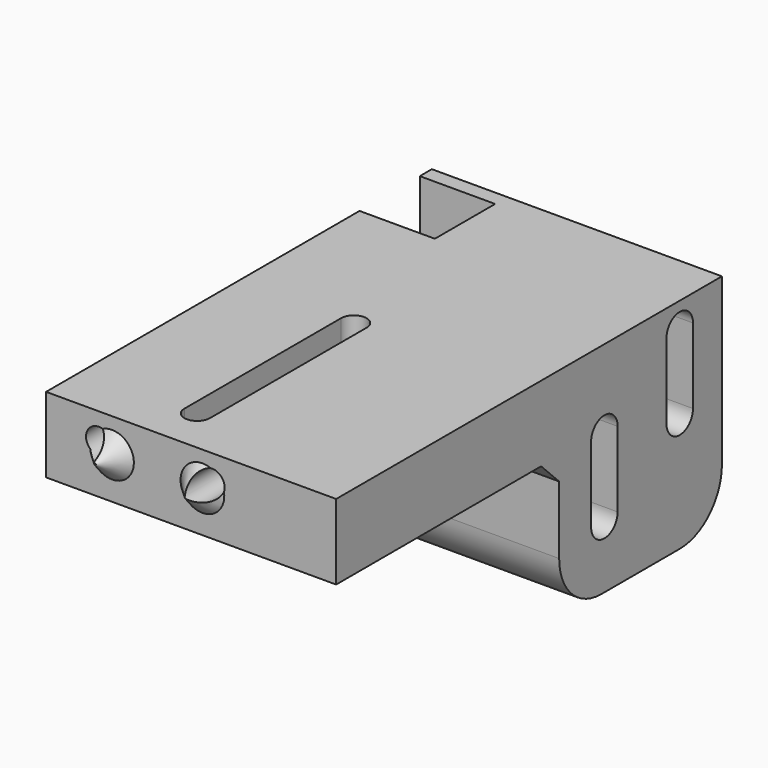
from build123d import *

# Parameters (mm, degrees)
BOX005009018_W            = 20
BOX005009018_H            = 10
BOX005009018_DEPTH        = 26
BOX005009017_W            = 20
BOX005009017_H            = 33
BOX005009017_DEPTH        = 26
CYLINDER027_R             = 3
CYLINDER027_DEPTH         = 4
BOX005009016_W            = 16
BOX005009016_H            = 5.6
BOX005009016_DEPTH        = 3
CYLINDER026_R             = 1.7
CYLINDER026_DEPTH         = 30
FUSION024_PITCH_ANGLE     = 90
FUSION024_PLACEMENT_ANGLE = 90
FUSION023_PITCH_ANGLE     = 90
FUSION023_PLACEMENT_ANGLE = 90
CYLINDER025_R             = 1.7
CYLINDER025_DEPTH         = 20
BOX005009015_W            = 3.4
BOX005009015_H            = 26
BOX005009015_DEPTH        = 20
CYLINDER024_R             = 1.7
CYLINDER024_DEPTH         = 20
BOX005009009_W            = 10
BOX005009009_H            = 4.4
BOX005009009_DEPTH        = 70
CYLINDER015_R             = 2.2
CYLINDER015_DEPTH         = 70
CYLINDER014_R             = 2.2
CYLINDER014_DEPTH         = 70
FUSION009_PITCH_ANGLE     = 90
FUSION011_PITCH_ANGLE     = 90
CYLINDER022_R             = 3
CYLINDER022_DEPTH         = 6
CYLINDER022_ROLL_ANGLE    = 90
CHAMFER014_SIZE           = 2.9
CHAMFER012_SIZE           = 2.9
CHAMFER010_SIZE           = 2.9
CHAMFER008_SIZE           = 2.9
BOX005009011_W            = 41
BOX005009011_H            = 60
BOX005009011_DEPTH        = 29
BOX005009010_W            = 38.5
BOX005009010_H            = 64
BOX005009010_DEPTH        = 29
CHAMFER026_SIZE           = 3
FILLET003_R               = 7
FILLET004_R               = 7


with BuildPart() as cube005:
    # Box005009018 → Box005009018 (new body)
    with BuildSketch(Plane(origin=(-17, 313, -27), x_dir=(1, 0, 0), z_dir=(0, 0, 1))):
        with Locations((10, 5)):
            Rectangle(BOX005009018_W, BOX005009018_H)
    extrude(amount=BOX005009018_DEPTH)


with BuildPart() as fusion027:
    # Box005009017 → Box005009017 (new body)
    with BuildSketch(Plane(origin=(-17, 294, -38), x_dir=(1, 0, 0), z_dir=(0, 0, 1))):
        with Locations((10, 16.5)):
            Rectangle(BOX005009017_W, BOX005009017_H)
    extrude(amount=BOX005009017_DEPTH)

    # Fusion027: union Cube005
    add(cube005.part)


with BuildPart() as cylinder018:
    # Cylinder027 → Cylinder027 (new body)
    with BuildSketch(Plane.XY):
        Circle(CYLINDER027_R)
    extrude(amount=CYLINDER027_DEPTH)


with BuildPart() as cube003:
    # Box005009016 → Box005009016 (new body)
    with BuildSketch(Plane(origin=(-3.2, -2.8, 18), x_dir=(1, 0, 0), z_dir=(0, 0, 1))):
        with Locations((8, 2.8)):
            Rectangle(BOX005009016_W, BOX005009016_H)
    extrude(amount=BOX005009016_DEPTH)


with BuildPart() as cylinder017:
    # Cylinder026 → Cylinder026 (new body)
    with BuildSketch(Plane.XY.offset(1)):
        Circle(CYLINDER026_R)
    extrude(amount=CYLINDER026_DEPTH)


with BuildPart() as m3_cavity001:
    # Fusion024 base: copy of Cylinder017
    add(cylinder017.part)

    # Fusion024: union Cylinder018, Cube003
    add(cylinder018.part)
    add(cube003.part)


with BuildPart() as m3_cavity001_1:
    # Fusion024 pitch: moved
    add(m3_cavity001.part.rotate(Axis((0, 0, 0), (0, 1, 0)), FUSION024_PITCH_ANGLE))


with BuildPart() as m3_cavity001_2:
    # Fusion024 placement: moved
    add(m3_cavity001_1.part.moved(Location((15, 249, -6))).rotate(Axis((15, 249, -6), (0, 0, 1)), FUSION024_PLACEMENT_ANGLE))


with BuildPart() as m3_cavity:
    # Fusion023 base: copy of Cylinder017
    add(cylinder017.part)

    # Fusion023: union Cylinder018, Cube003
    add(cylinder018.part)
    add(cube003.part)


with BuildPart() as m3_cavity_1:
    # Fusion023 pitch: moved
    add(m3_cavity.part.rotate(Axis((0, 0, 0), (0, 1, 0)), FUSION023_PITCH_ANGLE))


with BuildPart() as m3_cavity_2:
    # Fusion023 placement: moved
    add(m3_cavity_1.part.moved(Location((0, 249, -6))).rotate(Axis((0, 249, -6), (0, 0, 1)), FUSION023_PLACEMENT_ANGLE))


with BuildPart() as cylinder016:
    # Cylinder025 → Cylinder025 (new body)
    with BuildSketch(Plane(origin=(8.25, 293, -17), x_dir=(1, 0, 0), z_dir=(0, 0, 1))):
        Circle(CYLINDER025_R)
    extrude(amount=CYLINDER025_DEPTH)


with BuildPart() as cube002:
    # Box005009015 → Box005009015 (new body)
    with BuildSketch(Plane(origin=(6.55, 267, -17), x_dir=(1, 0, 0), z_dir=(0, 0, 1))):
        with Locations((1.7, 13)):
            Rectangle(BOX005009015_W, BOX005009015_H)
    extrude(amount=BOX005009015_DEPTH)


with BuildPart() as slider_screw_slot:
    # Cylinder024 → Cylinder024 (new body)
    with BuildSketch(Plane(origin=(8.25, 267, -17), x_dir=(1, 0, 0), z_dir=(0, 0, 1))):
        Circle(CYLINDER024_R)
    extrude(amount=CYLINDER024_DEPTH)

    # Fusion022: union Cylinder016, Cube002
    add(cylinder016.part)
    add(cube002.part)


with BuildPart() as cube001:
    # Box005009009 → Box005009009 (new body)
    with BuildSketch(Plane(origin=(0, -2.2, 0), x_dir=(1, 0, 0), z_dir=(0, 0, 1))):
        with Locations((5, 2.2)):
            Rectangle(BOX005009009_W, BOX005009009_H)
    extrude(amount=BOX005009009_DEPTH)


with BuildPart() as cylinder014:
    # Cylinder015 → Cylinder015 (new body)
    with BuildSketch(Plane(origin=(10, 0, 0), x_dir=(1, 0, 0), z_dir=(0, 0, 1))):
        Circle(CYLINDER015_R)
    extrude(amount=CYLINDER015_DEPTH)


with BuildPart() as cylinder013:
    # Cylinder014 → Cylinder014 (new body)
    with BuildSketch(Plane.XY):
        Circle(CYLINDER014_R)
    extrude(amount=CYLINDER014_DEPTH)


with BuildPart() as m4_slot001:
    # Fusion009 base: copy of Cylinder013
    add(cylinder013.part)

    # Fusion009: union Cube001, Cylinder014
    add(cube001.part)
    add(cylinder014.part)


with BuildPart() as m4_slot001_1:
    # Fusion009 pitch: moved
    add(m4_slot001.part.rotate(Axis((0, 0, 0), (0, 1, 0)), FUSION009_PITCH_ANGLE))


with BuildPart() as m4_slot001_2:
    # Fusion009 placement: moved
    add(m4_slot001_1.part.moved(Location((-26, 305.5, -13))))


with BuildPart() as fusion019:
    # Fusion011 base: copy of Cylinder013
    add(cylinder013.part)

    # Fusion011: union Cube001, Cylinder014
    add(cube001.part)
    add(cylinder014.part)


with BuildPart() as fusion019_1:
    # Fusion011 pitch: moved
    add(fusion019.part.rotate(Axis((0, 0, 0), (0, 1, 0)), FUSION011_PITCH_ANGLE))


with BuildPart() as fusion019_2:
    # Fusion011 placement: moved
    add(fusion019_1.part.moved(Location((-26, 318, -6))))

    # Fusion019: union M4 slot001
    add(m4_slot001_2.part)


with BuildPart() as lug:
    # Cylinder022 → Cylinder022 (new body)
    with BuildSketch(Plane.XY):
        Circle(CYLINDER022_R)
    extrude(amount=CYLINDER022_DEPTH)


with BuildPart() as lug_1:
    # Cylinder022 roll: moved
    add(lug.part.rotate(Axis((0, 0, 0), (1, 0, 0)), CYLINDER022_ROLL_ANGLE))


with BuildPart() as lug_2:
    # Cylinder022 placement: moved
    add(lug_1.part.moved(Location((7.75, 328.8, -7))))


with BuildPart() as chamfer014:
    # Chamfer014 base: copy of lug
    add(lug_2.part)

    # Chamfer014
    chamfer014_edges = [chamfer014.edges().sort_by_distance(p)[0] for p in [
        (4.75, 328.8, -7),
    ]]
    chamfer(chamfer014_edges, length=CHAMFER014_SIZE)


with BuildPart() as chamfer014_1:
    # Chamfer014 placement: moved
    add(chamfer014.part.moved(Location((6, -1, 0))))


with BuildPart() as part_mirroring002:
    # Part__Mirroring002: instance of Chamfer014
    add(chamfer014_1.part.mirror(Plane(origin=(0, 200, 0), x_dir=(1, 0, 0), z_dir=(0, 1, 0))))


with BuildPart() as chamfer012:
    # Chamfer012 base: copy of lug
    add(lug_2.part)

    # Chamfer012
    chamfer012_edges = [chamfer012.edges().sort_by_distance(p)[0] for p in [
        (4.75, 328.8, -7),
    ]]
    chamfer(chamfer012_edges, length=CHAMFER012_SIZE)


with BuildPart() as chamfer012_1:
    # Chamfer012 placement: moved
    add(chamfer012.part.moved(Location((-6, -1, 0))))


with BuildPart() as fusion016:
    # Part__Mirroring: instance of Chamfer012
    add(chamfer012_1.part.mirror(Plane(origin=(0, 200, 0), x_dir=(1, 0, 0), z_dir=(0, 1, 0))))

    # Fusion016: union Part__Mirroring002
    add(part_mirroring002.part)


with BuildPart() as fusion016_1:
    # Fusion016 placement: moved
    add(fusion016.part.moved(Location((0, 186, 0))))


with BuildPart() as chamfer010:
    # Chamfer010 base: copy of lug
    add(lug_2.part)

    # Chamfer010
    chamfer010_edges = [chamfer010.edges().sort_by_distance(p)[0] for p in [
        (4.75, 328.8, -7),
    ]]
    chamfer(chamfer010_edges, length=CHAMFER010_SIZE)


with BuildPart() as chamfer010_1:
    # Chamfer010 placement: moved
    add(chamfer010.part.moved(Location((6, -1, 0))))


with BuildPart() as lugs:
    # Chamfer008 base: copy of lug
    add(lug_2.part)

    # Chamfer008
    chamfer008_edges = [lugs.edges().sort_by_distance(p)[0] for p in [
        (4.75, 328.8, -7),
    ]]
    chamfer(chamfer008_edges, length=CHAMFER008_SIZE)


with BuildPart() as lugs_1:
    # Chamfer008 placement: moved
    add(lugs.part.moved(Location((-6, -1, 0))))

    # Fusion014: union Chamfer010
    add(chamfer010_1.part)


with BuildPart() as slider002:
    # Box005009011 → Box005009011 (new body)
    with BuildSketch(Plane(origin=(-8, 238, -41.5), x_dir=(1, 0, 0), z_dir=(0, 0, 1))):
        with Locations((20.5, 30)):
            Rectangle(BOX005009011_W, BOX005009011_H)
    extrude(amount=BOX005009011_DEPTH)


with BuildPart() as slider_support:
    # Box005009010 → Box005009010 (new body)
    with BuildSketch(Plane(origin=(-7, 261, -31.5), x_dir=(1, 0, 0), z_dir=(0, 0, 1))):
        with Locations((19.25, 32)):
            Rectangle(BOX005009010_W, BOX005009010_H)
    extrude(amount=BOX005009010_DEPTH)

    # Cut015: cut slider002
    add(slider002.part, mode=Mode.SUBTRACT)

    # Fusion015: union lugs
    add(lugs_1.part)

    # Fusion018: union Fusion016
    add(fusion016_1.part)

    # Cut018: cut Fusion019
    add(fusion019_2.part, mode=Mode.SUBTRACT)

    # Cut022: cut slider-screw-slot
    add(slider_screw_slot.part, mode=Mode.SUBTRACT)

    # Chamfer026
    chamfer026_edges = [slider_support.edges().sort_by_distance(p)[0] for p in [
        (12.25, 298, -12.5),
    ]]
    chamfer(chamfer026_edges, length=CHAMFER026_SIZE)

    # Fillet003
    fillet003_edges = [slider_support.edges().sort_by_distance(p)[0] for p in [
        (12.25, 298, -31.5),
    ]]
    fillet(fillet003_edges, radius=FILLET003_R)

    # Fillet004
    fillet004_edges = [slider_support.edges().sort_by_distance(p)[0] for p in [
        (12.25, 325, -31.5),
    ]]
    fillet(fillet004_edges, radius=FILLET004_R)

    # Cut023: cut M3-cavity
    add(m3_cavity_2.part, mode=Mode.SUBTRACT)

    # Cut024: cut M3-cavity001
    add(m3_cavity001_2.part, mode=Mode.SUBTRACT)

    # Cut027: cut Fusion027
    add(fusion027.part, mode=Mode.SUBTRACT)


solid = slider_support.part
